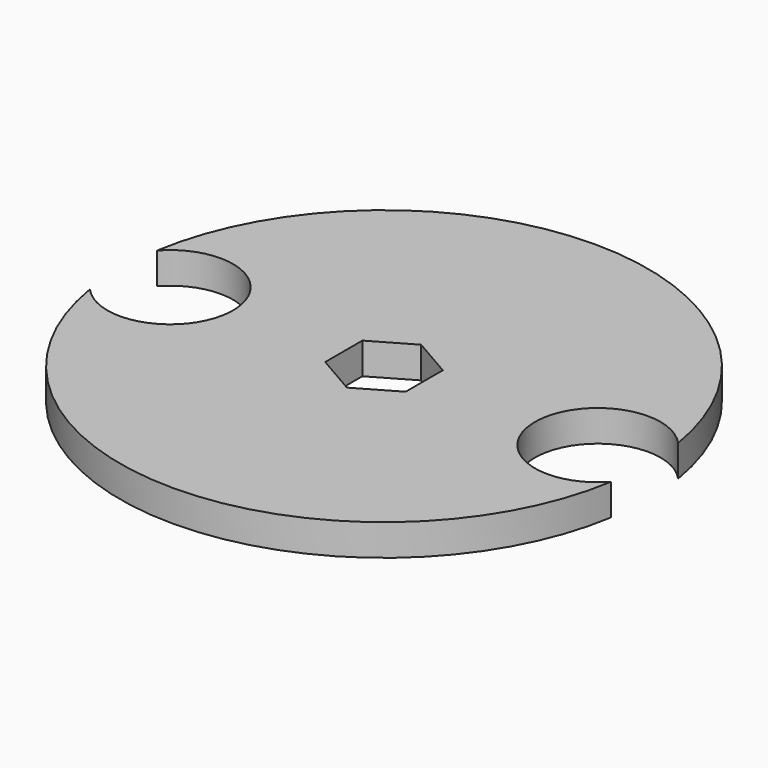
from build123d import *

# Parameters (mm, degrees)
F1_DEPTH = 3.175


with BuildPart() as f1:
    # F0 (on Top) → F1 (new body)
    with BuildSketch(Plane.XY):
        with BuildLine():
            ThreePointArc((-26.330991, 4.238848), (-15.252919, 0), (-26.330991, -4.238848))
            ThreePointArc((-26.330991, -4.238848), (0, -26.67), (26.330991, -4.238848))
            ThreePointArc((26.330991, -4.238848), (15.252919, 0), (26.330991, 4.238848))
            ThreePointArc((26.330991, 4.238848), (0, 26.67), (-26.330991, 4.238848))
        make_face()
        Polygon((0, 4.692703), (4.064, 2.346351), (4.064, -2.346351), (0, -4.692703), (-4.064, -2.346351), (-4.064, 2.346351), align=None, mode=Mode.SUBTRACT)
    extrude(amount=F1_DEPTH)


solid = f1.part
